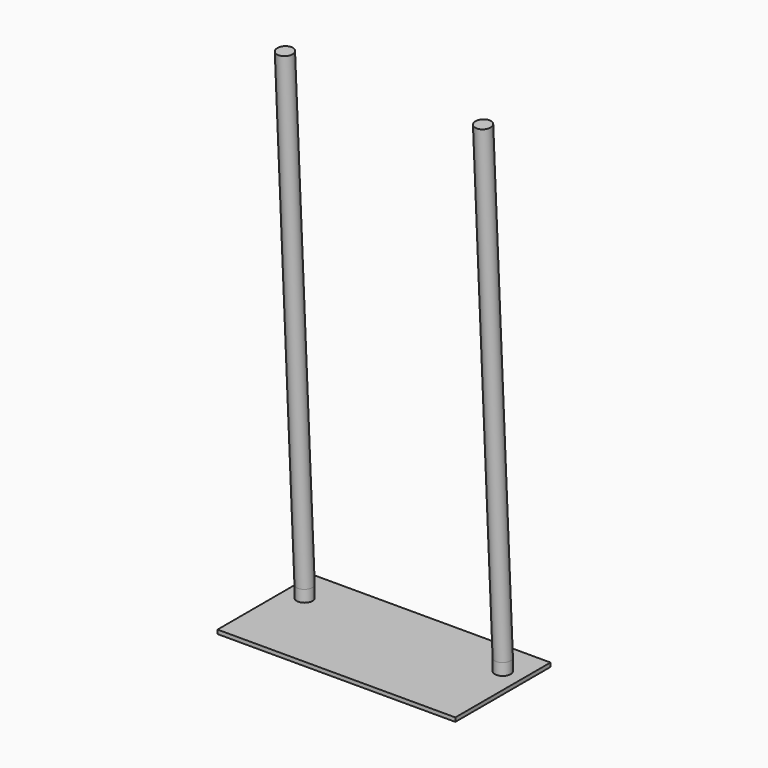
from build123d import *

# Parameters (mm, degrees)
F0_W     = 600
F0_H     = 300
F1_DEPTH = 10
F2_R     = 20


with BuildPart() as f1:
    # F0 (on Top) → F1 (new body)
    with BuildSketch(Plane.XY):
        Rectangle(F0_W, F0_H)
    extrude(amount=F1_DEPTH)

    # F5: sweep along a path in F4
    with BuildLine(Plane.YZ.offset(250)) as f5_path:
        Line((62.0618723333, 10), (62.0618723333, 40))
        Line((62.0618723333, 40), (0, 1250))
    # F2 (on face) → F5 (sweep)
    with BuildSketch(Plane.XY.offset(10)):
        with Locations((250, 62.0618723333)):
            Circle(F2_R)
        with BuildLine():
            ThreePointArc((-270, 62.0618723333), (-250, 42.0618723333), (-230, 62.0618723333))
            ThreePointArc((-230, 62.0618723333), (-250, 82.0618723333), (-270, 62.0618723333))
        make_face()
    sweep(path=f5_path.line, transition=Transition.RIGHT)


solid = f1.part
